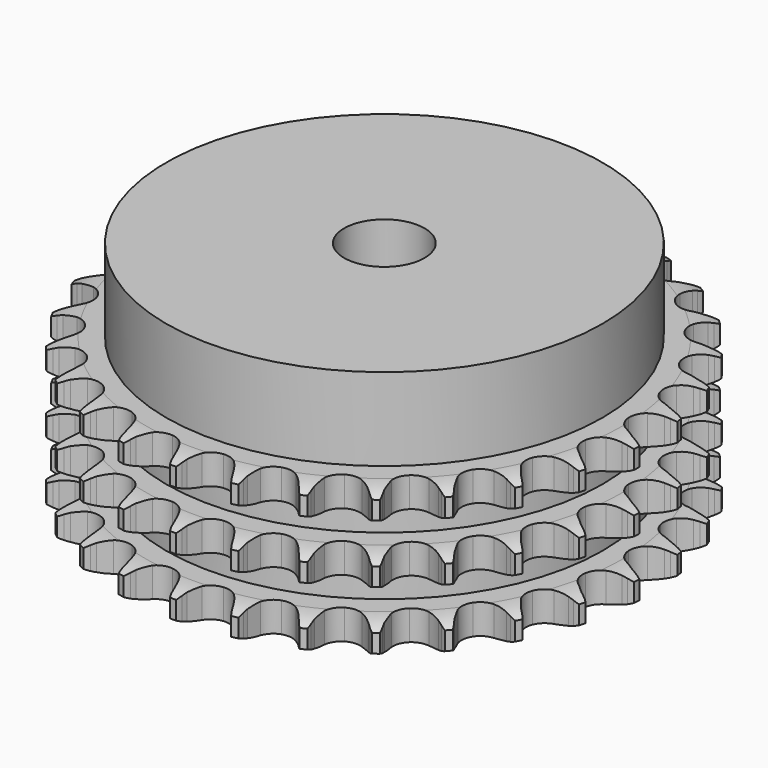
from build123d import *

# Parameters (mm, degrees)
PAD_DEPTH         = 25.6
SKETCH001_R       = 38
PAD001_DEPTH      = 40
SKETCH002_R       = 7
POCKET_DEPTH      = 0.001
POCKET_DEPTH_BACK = 40.001


with BuildPart() as part:
    # Sprocket → Pad (new body)
    with BuildSketch(Plane.XY):
        with BuildLine():
            ThreePointArc((-5.070808, 46.62531), (-4.460119, 45.833793), (-4.013256, 44.939504))
            Line((-4.013256, 44.939504), (-3.703711, 44.133111))
            ThreePointArc((-3.703711, 44.133111), (-3.211382, 43.078137), (-2.576433, 42.102331))
            ThreePointArc((-2.576433, 42.102331), (-1.439022, 41.158092), (0, 40.819705))
            ThreePointArc((0, 40.819705), (1.439022, 41.158092), (2.576433, 42.102331))
            ThreePointArc((2.576433, 42.102331), (3.211382, 43.078137), (3.703711, 44.133111))
            Line((3.703711, 44.133111), (4.013256, 44.939504))
            ThreePointArc((4.013256, 44.939504), (4.460119, 45.833793), (5.070808, 46.62531))
            ThreePointArc((5.070808, 46.62531), (5.497067, 45.721018), (5.741236, 44.751574))
            Line((5.741236, 44.751574), (5.870194, 43.897492))
            ThreePointArc((5.870194, 43.897492), (6.124224, 42.761346), (6.534559, 41.671859))
            ThreePointArc((6.534559, 41.671859), (7.442395, 40.505186), (8.77503, 39.865363))
            ThreePointArc((8.77503, 39.865363), (10.253152, 39.886492), (11.566954, 40.564145))
            Line((11.566954, 40.564145), (13.104434, 42.305115))
            ThreePointArc((13.104434, 42.305115), (13.332889, 42.671798), (13.580093, 43.026112))
            ThreePointArc((13.580093, 43.026112), (14.208754, 43.803431), (14.975319, 44.445163))
            ThreePointArc((14.975319, 44.445163), (15.197216, 43.470379), (15.227275, 42.471111))
            Line((15.227275, 42.471111), (15.169615, 41.609274))
            ThreePointArc((15.169615, 41.609274), (15.173469, 40.445083), (15.340003, 39.292857))
            ThreePointArc((15.340003, 39.292857), (15.975813, 37.958303), (17.139749, 37.046961))
            ThreePointArc((17.139749, 37.046961), (18.587856, 36.749843), (20.016618, 37.129225))
            Line((20.016618, 37.129225), (21.892409, 38.498979))
            ThreePointArc((21.892409, 38.498979), (22.194348, 38.807978), (22.51194, 39.100866))
            ThreePointArc((22.51194, 39.100866), (23.293004, 39.724869), (24.1796, 40.186808))
            ThreePointArc((24.1796, 40.186808), (24.18676, 39.187114), (24.001303, 38.204746))
            Line((24.001303, 38.204746), (23.759722, 37.375454))
            ThreePointArc((23.759722, 37.375454), (23.513219, 36.237652), (23.428165, 35.076565))
            ThreePointArc((23.428165, 35.076565), (23.762221, 33.636531), (24.703033, 32.496284))
            ThreePointArc((24.703033, 32.496284), (26.053412, 31.894813), (27.530326, 31.958183))
            Line((27.530326, 31.958183), (29.656719, 32.892673))
            ThreePointArc((29.656719, 32.892673), (30.018025, 33.129541), (30.391154, 33.347308))
            ThreePointArc((30.391154, 33.347308), (31.288099, 33.788816), (32.253271, 34.049364))
            ThreePointArc((32.253271, 34.049364), (32.045359, 33.071502), (31.653057, 32.15197))
            Line((31.653057, 32.15197), (31.238851, 31.393998))
            ThreePointArc((31.238851, 31.393998), (30.753517, 30.335789), (30.420852, 29.220131))
            ThreePointArc((30.420852, 29.220131), (30.437533, 27.741953), (31.11123, 26.426117))
            ThreePointArc((31.11123, 26.426117), (32.300739, 25.548416), (33.756747, 25.292812))
            Line((33.756747, 25.292812), (36.034314, 25.748343))
            ThreePointArc((36.034314, 25.748343), (36.438092, 25.902002), (36.849311, 26.034467))
            ThreePointArc((36.849311, 26.034467), (37.820198, 26.272836), (38.818814, 26.319809))
            ThreePointArc((38.818814, 26.319809), (38.405551, 25.409504), (37.82475, 24.595803))
            Line((37.82475, 24.595803), (37.257285, 23.944595))
            ThreePointArc((37.257285, 23.944595), (36.555815, 23.015458), (35.991094, 21.997397))
            ThreePointArc((35.991094, 21.997397), (35.68962, 20.550191), (36.064701, 19.120294))
            ThreePointArc((36.064701, 19.120294), (37.03772, 18.007404), (38.40474, 17.444778))
            Line((38.40474, 17.444778), (40.726984, 17.400048))
            ThreePointArc((40.726984, 17.400048), (41.154355, 17.463315), (41.584436, 17.504283))
            ThreePointArc((41.584436, 17.504283), (42.583866, 17.528367), (43.569232, 17.359569))
            ThreePointArc((43.569232, 17.359569), (42.969943, 16.559386), (42.227799, 15.889564))
            Line((42.227799, 15.889564), (41.533611, 15.375568))
            ThreePointArc((41.533611, 15.375568), (40.648803, 14.61895), (39.878432, 13.746089))
            ThreePointArc((39.878432, 13.746089), (39.2729, 12.397526), (39.331826, 10.920428))
            ThreePointArc((39.331826, 10.920428), (40.042859, 9.624386), (41.25697, 8.781045))
            Line((41.25697, 8.781045), (43.515306, 8.238147))
            ThreePointArc((43.515306, 8.238147), (43.946285, 8.208063), (44.375118, 8.155618))
            ThreePointArc((44.375118, 8.155618), (45.356359, 7.964291), (46.282402, 7.587615))
            ThreePointArc((46.282402, 7.587615), (45.525108, 6.934969), (44.656323, 6.440346))
            Line((44.656323, 6.440346), (43.867871, 6.087598))
            ThreePointArc((43.867871, 6.087598), (42.841099, 5.538876), (41.901099, 4.852029))
            ThreePointArc((41.901099, 4.852029), (41.019823, 3.665166), (40.759839, 2.209934))
            ThreePointArc((40.759839, 2.209934), (41.175638, 0.791342), (42.18007, -0.29328))
            Line((42.18007, -0.29328), (44.268901, -1.308961))
            ThreePointArc((44.268901, -1.308961), (44.683336, -1.430989), (45.090869, -1.574395))
            ThreePointArc((45.090869, -1.574395), (46.00804, -1.972186), (46.831458, -2.539128))
            ThreePointArc((46.831458, -2.539128), (45.95157, -3.013719), (44.996767, -3.310015))
            Line((44.996767, -3.310015), (44.150918, -3.485023))
            ThreePointArc((44.150918, -3.485023), (43.030192, -3.80019), (41.964518, -4.268907))
            ThreePointArc((41.964518, -4.268907), (40.848705, -5.238573), (40.281967, -6.603893))
            ThreePointArc((40.281967, -6.603893), (40.383089, -8.078704), (41.130877, -9.353892))
            Line((41.130877, -9.353892), (42.95253, -10.794863))
            ThreePointArc((42.95253, -10.794863), (43.331044, -11.00313), (43.698221, -11.23079))
            ThreePointArc((43.698221, -11.23079), (44.508436, -11.816446), (45.190727, -12.547144))
            ThreePointArc((45.190727, -12.547144), (44.229387, -12.821489), (43.233212, -12.905603))
            Line((43.233212, -12.905603), (42.369517, -12.894687))
            ThreePointArc((42.369517, -12.894687), (41.207242, -12.961563), (40.065722, -13.190233))
            ThreePointArc((40.065722, -13.190233), (38.767547, -13.897362), (37.920555, -15.10893))
            ThreePointArc((37.920555, -15.10893), (37.702273, -16.570998), (38.158449, -17.977126))
            Line((38.158449, -17.977126), (39.627748, -19.776009))
            ThreePointArc((39.627748, -19.776009), (39.952641, -20.060777), (40.262293, -20.362046))
            ThreePointArc((40.262293, -20.362046), (40.927667, -21.108182), (41.436928, -21.968469))
            ThreePointArc((41.436928, -21.968469), (40.439087, -22.029741), (39.44812, -21.89774))
            Line((39.44812, -21.89774), (38.606965, -21.70141))
            ThreePointArc((38.606965, -21.70141), (37.457486, -21.516868), (36.293497, -21.494798))
            ThreePointArc((36.293497, -21.494798), (34.873661, -21.906326), (33.78602, -22.90749))
            ThreePointArc((33.78602, -22.90749), (33.25854, -24.288452), (33.401775, -25.759769))
            Line((33.401775, -25.759769), (34.450016, -27.832452))
            ThreePointArc((34.450016, -27.832452), (34.706096, -28.180404), (34.943745, -28.541196))
            ThreePointArc((34.943745, -28.541196), (35.433166, -29.412923), (35.745584, -30.362573))
            ThreePointArc((35.745584, -30.362573), (34.757901, -30.207906), (33.818478, -29.865963))
            Line((33.818478, -29.865963), (33.039194, -29.493399))
            ThreePointArc((33.039194, -29.493399), (31.95626, -29.066068), (30.824229, -28.794291))
            ThreePointArc((30.824229, -28.794291), (29.349121, -28.890975), (28.071689, -29.634922))
            ThreePointArc((28.071689, -29.634922), (27.259674, -30.870204), (27.083272, -32.337914))
            Line((27.083272, -32.337914), (27.661439, -34.587479))
            ThreePointArc((27.661439, -34.587479), (27.836733, -34.982346), (27.991266, -35.385791))
            ThreePointArc((27.991266, -35.385791), (28.281849, -36.342349), (28.382817, -37.336957))
            ThreePointArc((28.382817, -37.336957), (27.451474, -36.973583), (26.607522, -36.437686))
            Line((26.607522, -36.437686), (25.926547, -35.90631))
            ThreePointArc((25.926547, -35.90631), (24.960796, -35.256171), (23.913655, -34.747395))
            ThreePointArc((23.913655, -34.747395), (22.45225, -34.524713), (21.044756, -34.976657))
            ThreePointArc((21.044756, -34.976657), (19.986177, -36.0085), (19.498384, -37.403975))
            Line((19.498384, -37.403975), (19.579444, -39.725235))
            ThreePointArc((19.579444, -39.725235), (19.665756, -40.148553), (19.729947, -40.575786))
            ThreePointArc((19.729947, -40.575786), (19.808104, -41.572446), (19.6929, -42.565506))
            ThreePointArc((19.6929, -42.565506), (18.861446, -42.010417), (18.152427, -41.305624))
            Line((18.152427, -41.305624), (17.601603, -40.640282))
            ThreePointArc((17.601603, -40.640282), (16.798191, -39.797734), (15.884904, -39.075749))
            ThreePointArc((15.884904, -39.075749), (14.505536, -38.544115), (13.033794, -38.682923))
            ThreePointArc((13.033794, -38.682923), (11.778148, -39.463079), (11.001774, -40.721067))
            Line((11.001774, -40.721067), (10.581936, -43.005483))
            ThreePointArc((10.581936, -43.005483), (10.575229, -43.437459), (10.546077, -43.868502))
            ThreePointArc((10.546077, -43.868502), (10.408155, -44.858662), (10.082166, -45.80374))
            ThreePointArc((10.082166, -45.80374), (9.389478, -45.08289), (8.848545, -44.242157))
            Line((8.848545, -44.242157), (8.453628, -43.473959))
            ThreePointArc((8.453628, -43.473959), (7.850123, -42.4784), (7.113393, -41.576964))
            ThreePointArc((7.113393, -41.576964), (5.880559, -40.761236), (4.413386, -40.580418))
            ThreePointArc((4.413386, -40.580418), (3.019386, -41.072407), (1.990733, -42.134087))
            Line((1.990733, -42.134087), (1.089629, -44.274842))
            ThreePointArc((1.089629, -44.274842), (0.990216, -44.695277), (0.869085, -45.109976))
            ThreePointArc((0.869085, -45.109976), (0.521531, -46.047337), (0, -46.900241))
            ThreePointArc((0, -46.900241), (-0.521531, -46.047337), (-0.869085, -45.109976))
            Line((-0.869085, -45.109976), (-1.089629, -44.274842))
            ThreePointArc((-1.089629, -44.274842), (-1.465009, -43.172823), (-1.990733, -42.134087))
            ThreePointArc((-1.990733, -42.134087), (-3.019386, -41.072407), (-4.413386, -40.580418))
            ThreePointArc((-4.413386, -40.580418), (-5.880559, -40.761236), (-7.113393, -41.576964))
            Line((-7.113393, -41.576964), (-8.453628, -43.473959))
            ThreePointArc((-8.453628, -43.473959), (-8.641098, -43.863193), (-8.848545, -44.242157))
            ThreePointArc((-8.848545, -44.242157), (-9.389478, -45.08289), (-10.082166, -45.80374))
            ThreePointArc((-10.082166, -45.80374), (-10.408155, -44.858662), (-10.546077, -43.868502))
            Line((-10.546077, -43.868502), (-10.581936, -43.005483))
            ThreePointArc((-10.581936, -43.005483), (-10.711639, -41.848532), (-11.001774, -40.721067))
            ThreePointArc((-11.001774, -40.721067), (-11.778148, -39.463079), (-13.033794, -38.682923))
            ThreePointArc((-13.033794, -38.682923), (-14.505536, -38.544115), (-15.884904, -39.075749))
            Line((-15.884904, -39.075749), (-17.601603, -40.640282))
            ThreePointArc((-17.601603, -40.640282), (-17.868364, -40.980116), (-18.152427, -41.305624))
            ThreePointArc((-18.152427, -41.305624), (-18.861446, -42.010417), (-19.6929, -42.565506))
            ThreePointArc((-19.6929, -42.565506), (-19.808104, -41.572446), (-19.729947, -40.575786))
            Line((-19.729947, -40.575786), (-19.579444, -39.725235))
            ThreePointArc((-19.579444, -39.725235), (-19.457404, -38.567451), (-19.498384, -37.403975))
            ThreePointArc((-19.498384, -37.403975), (-19.986177, -36.0085), (-21.044756, -34.976657))
            ThreePointArc((-21.044756, -34.976657), (-22.45225, -34.524713), (-23.913655, -34.747395))
            Line((-23.913655, -34.747395), (-25.926547, -35.90631))
            ThreePointArc((-25.926547, -35.90631), (-26.260125, -36.180853), (-26.607522, -36.437686))
            ThreePointArc((-26.607522, -36.437686), (-27.451474, -36.973583), (-28.382817, -37.336957))
            ThreePointArc((-28.382817, -37.336957), (-28.281849, -36.342349), (-27.991266, -35.385791))
            Line((-27.991266, -35.385791), (-27.661439, -34.587479))
            ThreePointArc((-27.661439, -34.587479), (-27.293363, -33.482999), (-27.083272, -32.337914))
            ThreePointArc((-27.083272, -32.337914), (-27.259674, -30.870204), (-28.071689, -29.634922))
            ThreePointArc((-28.071689, -29.634922), (-29.349121, -28.890975), (-30.824229, -28.794291))
            Line((-30.824229, -28.794291), (-33.039194, -29.493399))
            ThreePointArc((-33.039194, -29.493399), (-33.423991, -29.689814), (-33.818478, -29.865963))
            ThreePointArc((-33.818478, -29.865963), (-34.757901, -30.207906), (-35.745584, -30.362573))
            ThreePointArc((-35.745584, -30.362573), (-35.433166, -29.412923), (-34.943745, -28.541196))
            Line((-34.943745, -28.541196), (-34.450016, -27.832452))
            ThreePointArc((-34.450016, -27.832452), (-33.853114, -26.832919), (-33.401775, -25.759769))
            ThreePointArc((-33.401775, -25.759769), (-33.25854, -24.288452), (-33.78602, -22.90749))
            ThreePointArc((-33.78602, -22.90749), (-34.873661, -21.906326), (-36.293497, -21.494798))
            Line((-36.293497, -21.494798), (-38.606965, -21.70141))
            ThreePointArc((-38.606965, -21.70141), (-39.02499, -21.810513), (-39.44812, -21.89774))
            ThreePointArc((-39.44812, -21.89774), (-40.439087, -22.029741), (-41.436928, -21.968469))
            ThreePointArc((-41.436928, -21.968469), (-40.927667, -21.108182), (-40.262293, -20.362046))
            Line((-40.262293, -20.362046), (-39.627748, -19.776009))
            ThreePointArc((-39.627748, -19.776009), (-38.829931, -18.928161), (-38.158449, -17.977126))
            ThreePointArc((-38.158449, -17.977126), (-37.702273, -16.570998), (-37.920555, -15.10893))
            ThreePointArc((-37.920555, -15.10893), (-38.767547, -13.897362), (-40.065722, -13.190233))
            Line((-40.065722, -13.190233), (-42.369517, -12.894687))
            ThreePointArc((-42.369517, -12.894687), (-42.801223, -12.911376), (-43.233212, -12.905603))
            ThreePointArc((-43.233212, -12.905603), (-44.229387, -12.821489), (-45.190727, -12.547144))
            ThreePointArc((-45.190727, -12.547144), (-44.508436, -11.816446), (-43.698221, -11.23079))
            Line((-43.698221, -11.23079), (-42.95253, -10.794863))
            ThreePointArc((-42.95253, -10.794863), (-41.991104, -10.138344), (-41.130877, -9.353892))
            ThreePointArc((-41.130877, -9.353892), (-40.383089, -8.078704), (-40.281967, -6.603893))
            ThreePointArc((-40.281967, -6.603893), (-40.848705, -5.238573), (-41.964518, -4.268907))
            Line((-41.964518, -4.268907), (-44.150918, -3.485023))
            ThreePointArc((-44.150918, -3.485023), (-44.576118, -3.408518), (-44.996767, -3.310015))
            ThreePointArc((-44.996767, -3.310015), (-45.95157, -3.013719), (-46.831458, -2.539128))
            ThreePointArc((-46.831458, -2.539128), (-46.00804, -1.972186), (-45.090869, -1.574395))
            Line((-45.090869, -1.574395), (-44.268901, -1.308961))
            ThreePointArc((-44.268901, -1.308961), (-43.18882, -0.874469), (-42.18007, -0.29328))
            ThreePointArc((-42.18007, -0.29328), (-41.175638, 0.791342), (-40.759839, 2.209934))
            ThreePointArc((-40.759839, 2.209934), (-41.019823, 3.665166), (-41.901099, 4.852029))
            Line((-41.901099, 4.852029), (-43.867871, 6.087598))
            ThreePointArc((-43.867871, 6.087598), (-44.266684, 6.253719), (-44.656323, 6.440346))
            ThreePointArc((-44.656323, 6.440346), (-45.525108, 6.934969), (-46.282402, 7.587615))
            ThreePointArc((-46.282402, 7.587615), (-45.356359, 7.964291), (-44.375118, 8.155618))
            Line((-44.375118, 8.155618), (-43.515306, 8.238147))
            ThreePointArc((-43.515306, 8.238147), (-42.367074, 8.430295), (-41.25697, 8.781045))
            ThreePointArc((-41.25697, 8.781045), (-40.042859, 9.624386), (-39.331826, 10.920428))
            ThreePointArc((-39.331826, 10.920428), (-39.2729, 12.397526), (-39.878432, 13.746089))
            Line((-39.878432, 13.746089), (-41.533611, 15.375568))
            ThreePointArc((-41.533611, 15.375568), (-41.887388, 15.623539), (-42.227799, 15.889564))
            ThreePointArc((-42.227799, 15.889564), (-42.969943, 16.559386), (-43.569232, 17.359569))
            ThreePointArc((-43.569232, 17.359569), (-42.583866, 17.528367), (-41.584436, 17.504283))
            Line((-41.584436, 17.504283), (-40.726984, 17.400048))
            ThreePointArc((-40.726984, 17.400048), (-39.564291, 17.340868), (-38.40474, 17.444778))
            ThreePointArc((-38.40474, 17.444778), (-37.03772, 18.007404), (-36.064701, 19.120294))
            ThreePointArc((-36.064701, 19.120294), (-35.68962, 20.550191), (-35.991094, 21.997397))
            Line((-35.991094, 21.997397), (-37.257285, 23.944595))
            ThreePointArc((-37.257285, 23.944595), (-37.549485, 24.26282), (-37.82475, 24.595803))
            ThreePointArc((-37.82475, 24.595803), (-38.405551, 25.409504), (-38.818814, 26.319809))
            ThreePointArc((-38.818814, 26.319809), (-37.820198, 26.272836), (-36.849311, 26.034467))
            Line((-36.849311, 26.034467), (-36.034314, 25.748343))
            ThreePointArc((-36.034314, 25.748343), (-34.911526, 25.440602), (-33.756747, 25.292812))
            ThreePointArc((-33.756747, 25.292812), (-32.300739, 25.548416), (-31.11123, 26.426117))
            ThreePointArc((-31.11123, 26.426117), (-30.437533, 27.741953), (-30.420852, 29.220131))
            Line((-30.420852, 29.220131), (-31.238851, 31.393998))
            ThreePointArc((-31.238851, 31.393998), (-31.45581, 31.767598), (-31.653057, 32.15197))
            ThreePointArc((-31.653057, 32.15197), (-32.045359, 33.071502), (-32.253271, 34.049364))
            ThreePointArc((-32.253271, 34.049364), (-31.288099, 33.788816), (-30.391154, 33.347308))
            Line((-30.391154, 33.347308), (-29.656719, 32.892673))
            ThreePointArc((-29.656719, 32.892673), (-28.626337, 32.350761), (-27.530326, 31.958183))
            ThreePointArc((-27.530326, 31.958183), (-26.053412, 31.894813), (-24.703033, 32.496284))
            ThreePointArc((-24.703033, 32.496284), (-23.762221, 33.636531), (-23.428165, 35.076565))
            Line((-23.428165, 35.076565), (-23.759722, 37.375454))
            ThreePointArc((-23.759722, 37.375454), (-23.891296, 37.786959), (-24.001303, 38.204746))
            ThreePointArc((-24.001303, 38.204746), (-24.18676, 39.187114), (-24.1796, 40.186808))
            ThreePointArc((-24.1796, 40.186808), (-23.293004, 39.724869), (-22.51194, 39.100866))
            Line((-22.51194, 39.100866), (-21.892409, 38.498979))
            ThreePointArc((-21.892409, 38.498979), (-21.002612, 37.748234), (-20.016618, 37.129225))
            ThreePointArc((-20.016618, 37.129225), (-18.587856, 36.749843), (-17.139749, 37.046961))
            ThreePointArc((-17.139749, 37.046961), (-15.975813, 37.958303), (-15.340003, 39.292857))
            Line((-15.340003, 39.292857), (-15.169615, 41.609274))
            ThreePointArc((-15.169615, 41.609274), (-15.209652, 42.039443), (-15.227275, 42.471111))
            ThreePointArc((-15.227275, 42.471111), (-15.197216, 43.470379), (-14.975319, 44.445163))
            ThreePointArc((-14.975319, 44.445163), (-14.208754, 43.803431), (-13.580093, 43.026112))
            Line((-13.580093, 43.026112), (-13.104434, 42.305115))
            ThreePointArc((-13.104434, 42.305115), (-12.396828, 41.380642), (-11.566954, 40.564145))
            ThreePointArc((-11.566954, 40.564145), (-10.253152, 39.886492), (-8.77503, 39.865363))
            ThreePointArc((-8.77503, 39.865363), (-7.442395, 40.505186), (-6.534559, 41.671859))
            Line((-6.534559, 41.671859), (-5.870194, 43.897492))
            ThreePointArc((-5.870194, 43.897492), (-5.816821, 44.32621), (-5.741236, 44.751574))
            ThreePointArc((-5.741236, 44.751574), (-5.497067, 45.721018), (-5.070808, 46.62531))
        make_face()
    extrude(amount=PAD_DEPTH)

    # Sketch → Groove (revolve, cut)
    with BuildSketch(Plane.XZ):
        with BuildLine():
            ThreePointArc((41.641101, 0), (43.877169, 0.253206), (46, 1))
            Line((46, 1), (46, 4.2))
            ThreePointArc((46, 4.2), (43.877169, 4.946794), (41.641101, 5.2))
            Line((38, 5.2), (41.641101, 5.2))
            Line((38, 5.2), (38, 10.2))
            Line((38, 10.2), (41.641101, 10.2))
            ThreePointArc((41.641101, 10.2), (43.877169, 10.453206), (46, 11.2))
            Line((46, 14.4), (46, 11.2))
            ThreePointArc((46, 14.4), (43.877169, 15.146794), (41.641101, 15.4))
            Line((38, 15.4), (41.641101, 15.4))
            Line((38, 20.4), (38, 15.4))
            Line((41.641101, 20.4), (38, 20.4))
            ThreePointArc((41.641101, 20.4), (43.877169, 20.653206), (46, 21.4))
            Line((46, 21.4), (46, 24.6))
            ThreePointArc((46, 24.6), (43.877169, 25.346794), (41.641101, 25.6))
            Line((41.641101, 25.6), (56, 25.6))
            Line((56, 25.6), (56, 0))
            Line((41.641101, 0), (56, 0))
        make_face()
    revolve(axis=Axis((0, 0, 0), (0, 0, 1)), mode=Mode.SUBTRACT)

    # Sketch001 → Pad001 (join)
    with BuildSketch(Plane.XY):
        Circle(SKETCH001_R)
    extrude(amount=PAD001_DEPTH)

    # Sketch002 → Pocket (cut, two sides)
    with BuildSketch(Plane.XY) as pocket_sk:
        Circle(SKETCH002_R)
    extrude(amount=-POCKET_DEPTH, mode=Mode.SUBTRACT)
    extrude(pocket_sk.sketch, amount=POCKET_DEPTH_BACK, mode=Mode.SUBTRACT)


solid = part.part
